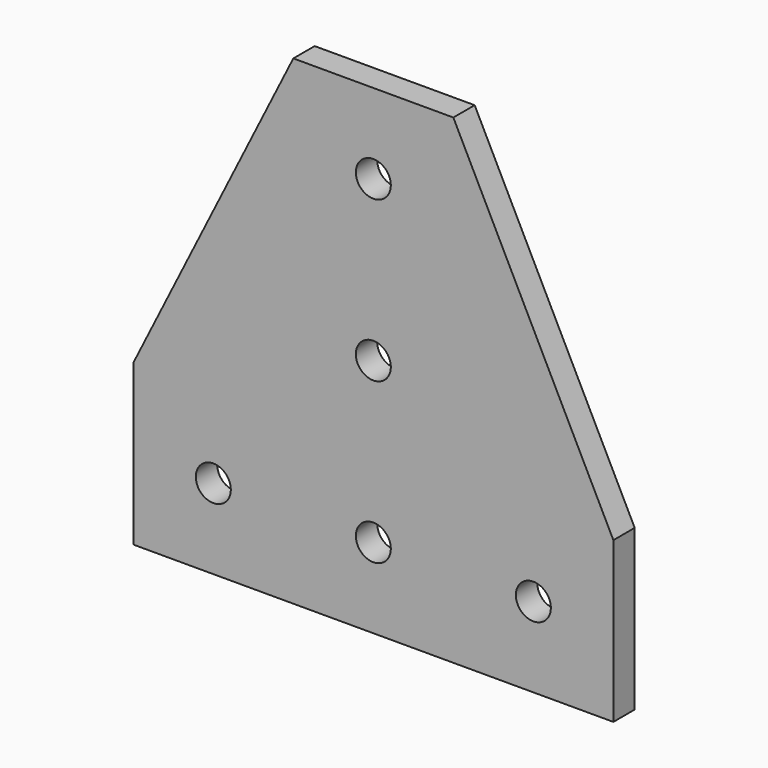
from build123d import *

# Parameters (mm, degrees)
F0_R     = 4.1656
F1_DEPTH = 6.35


with BuildPart() as f1:
    # F0 (on Front) → F1 (new body)
    with BuildSketch(Plane.XZ):
        Polygon((-57.15, -57.15), (57.15, -57.15), (57.15, -19.05), (19.05, 57.15), (0, 57.15), (-19.05, 57.15), (-57.15, -19.05), align=None)
        with Locations((-38.1, -38.1)):
            Circle(F0_R, mode=Mode.SUBTRACT)
        with BuildLine():
            ThreePointArc((0, -33.9344), (2.9455240077, -35.1544759923), (4.1656, -38.1))
            ThreePointArc((4.1656, -38.1), (-2.9455240077, -41.0455240077), (0, -33.9344))
        make_face(mode=Mode.SUBTRACT)
        with Locations((38.1, -38.1)):
            Circle(F0_R, mode=Mode.SUBTRACT)
        Circle(F0_R, mode=Mode.SUBTRACT)
        with Locations((0, 38.1)):
            Circle(F0_R, mode=Mode.SUBTRACT)
    extrude(amount=F1_DEPTH)


solid = f1.part
